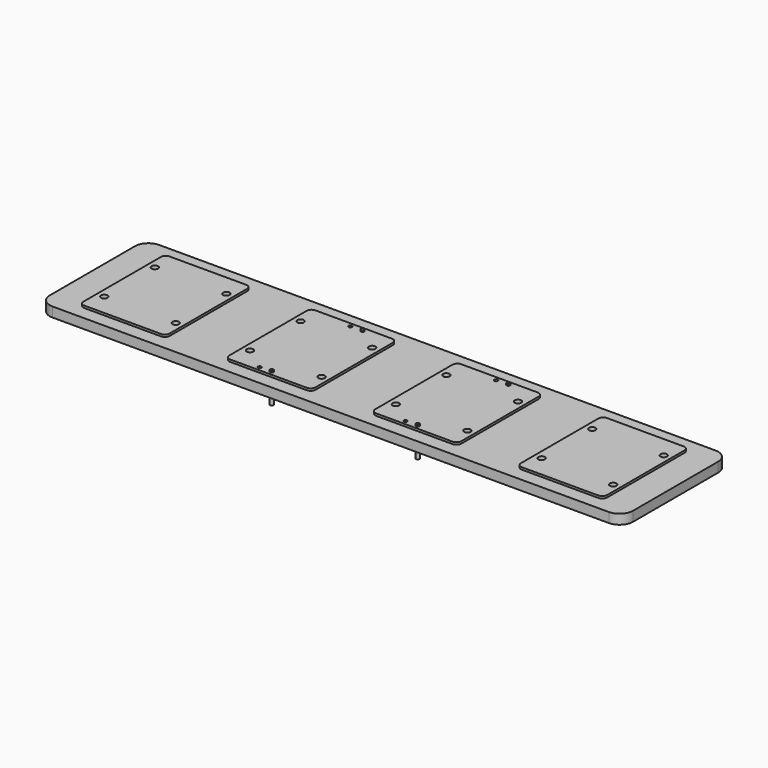
from build123d import *

# Parameters (mm, degrees)
F0_R          = 0.71
F0_R_2        = 2.735
F0_R_3        = 1.35
F1_DEPTH      = 2.9
F2_DEPTH      = 2
F3_DEPTH      = 5.1
F4_DEPTH      = 3.5
F4_DEPTH_BACK = 9


with BuildPart() as f1:
    # F0 (on Top) → F1 (new body, symmetric)
    with BuildSketch(Plane.XY):
        with BuildLine():
            Line((-12.25, -19.875), (-12.25, 19.875))
            ThreePointArc((-12.25, 19.875), (-12.8357864376, 21.2892135624), (-14.25, 21.875))
            Line((-14.25, 21.875), (-45.69, 21.875))
            ThreePointArc((-45.69, 21.875), (-47.1042135624, 21.2892135624), (-47.69, 19.875))
            Line((-47.69, 19.875), (-47.69, -19.875))
            ThreePointArc((-47.69, -19.875), (-47.1042135624, -21.2892135624), (-45.69, -21.875))
            Line((-45.69, -21.875), (-14.25, -21.875))
            ThreePointArc((-14.25, -21.875), (-12.8357864376, -21.2892135624), (-12.25, -19.875))
        make_face()
        with Locations((-34.98, -20.165)):
            Circle(F0_R, mode=Mode.SUBTRACT)
        with Locations((-29.97, -20.165)):
            Circle(F0_R, mode=Mode.SUBTRACT)
        with Locations((-44.67, -13)):
            Circle(F0_R_2, mode=Mode.SUBTRACT)
        with Locations((-15.27, -13)):
            Circle(F0_R_2, mode=Mode.SUBTRACT)
        with Locations((-44.67, 13)):
            Circle(F0_R_2, mode=Mode.SUBTRACT)
        with Locations((-15.27, 13)):
            Circle(F0_R_2, mode=Mode.SUBTRACT)
        with Locations((-29.97, 20.165)):
            Circle(F0_R, mode=Mode.SUBTRACT)
        with Locations((-24.96, 20.165)):
            Circle(F0_R, mode=Mode.SUBTRACT)
        with Locations((-44.67, 13)):
            Circle(F0_R_2)
        with Locations((-44.67, 13)):
            Circle(F0_R_3, mode=Mode.SUBTRACT)
        with Locations((-15.27, 13)):
            Circle(F0_R_2)
        with Locations((-15.27, 13)):
            Circle(F0_R_3, mode=Mode.SUBTRACT)
        with Locations((-44.67, -13)):
            Circle(F0_R_2)
        with Locations((-44.67, -13)):
            Circle(F0_R_3, mode=Mode.SUBTRACT)
        with Locations((-15.27, -13)):
            Circle(F0_R_2)
        with Locations((-15.27, -13)):
            Circle(F0_R_3, mode=Mode.SUBTRACT)
    extrude(amount=F1_DEPTH, both=True)


with BuildPart() as f1b:
    # F0 (on Top) → F1, piece 2 (new body, symmetric)
    with BuildSketch(Plane.XY):
        with BuildLine():
            ThreePointArc((-105.63, 21.875), (-107.0442135624, 21.2892135624), (-107.63, 19.875))
            Line((-107.63, 19.875), (-107.63, -19.875))
            ThreePointArc((-107.63, -19.875), (-107.0442135624, -21.2892135624), (-105.63, -21.875))
            Line((-105.63, -21.875), (-74.19, -21.875))
            ThreePointArc((-74.19, -21.875), (-72.7757864376, -21.2892135624), (-72.19, -19.875))
            Line((-72.19, -19.875), (-72.19, 19.875))
            ThreePointArc((-72.19, 19.875), (-72.7757864376, 21.2892135624), (-74.19, 21.875))
            Line((-74.19, 21.875), (-105.63, 21.875))
        make_face()
        with Locations((-104.61, -13)):
            Circle(F0_R_2, mode=Mode.SUBTRACT)
        with Locations((-75.21, -13)):
            Circle(F0_R_2, mode=Mode.SUBTRACT)
        with Locations((-104.61, 13)):
            Circle(F0_R_2, mode=Mode.SUBTRACT)
        with Locations((-75.21, 13)):
            Circle(F0_R_2, mode=Mode.SUBTRACT)
        with Locations((-104.61, 13)):
            Circle(F0_R_2)
        with Locations((-104.61, 13)):
            Circle(F0_R_3, mode=Mode.SUBTRACT)
        with Locations((-75.21, 13)):
            Circle(F0_R_2)
        with Locations((-75.21, 13)):
            Circle(F0_R_3, mode=Mode.SUBTRACT)
        with Locations((-104.61, -13)):
            Circle(F0_R_2)
        with Locations((-104.61, -13)):
            Circle(F0_R_3, mode=Mode.SUBTRACT)
        with Locations((-75.21, -13)):
            Circle(F0_R_2)
        with Locations((-75.21, -13)):
            Circle(F0_R_3, mode=Mode.SUBTRACT)
    extrude(amount=F1_DEPTH, both=True)


with BuildPart() as f1c:
    # F0 (on Top) → F1, piece 3 (new body, symmetric)
    with BuildSketch(Plane.XY):
        with BuildLine():
            Line((29.97, 20.875), (29.97, 21.875))
            Line((29.97, 21.875), (14.25, 21.875))
            ThreePointArc((14.25, 21.875), (12.8357864376, 21.2892135624), (12.25, 19.875))
            Line((12.25, 19.875), (12.25, -19.875))
            ThreePointArc((12.25, -19.875), (12.8357864376, -21.2892135624), (14.25, -21.875))
            Line((14.25, -21.875), (29.97, -21.875))
            Line((29.97, -21.875), (29.97, -20.875))
            ThreePointArc((29.97, -20.875), (29.26, -20.165), (29.97, -19.455))
            Line((29.97, -19.455), (29.97, -13))
            Line((29.97, -13), (18.005, -13))
            ThreePointArc((18.005, -13), (13.3360629535, -14.9339370465), (15.27, -10.265))
            Line((15.27, -10.265), (15.27, 10.265))
            ThreePointArc((15.27, 10.265), (13.3360629535, 14.9339370465), (18.005, 13))
            Line((18.005, 13), (29.97, 13))
            Line((29.97, 13), (29.97, 19.455))
            ThreePointArc((29.97, 19.455), (29.26, 20.165), (29.97, 20.875))
        make_face()
        with Locations((24.96, -20.165)):
            Circle(F0_R, mode=Mode.SUBTRACT)
        with BuildLine():
            Line((47.69, -19.875), (47.69, 19.875))
            ThreePointArc((47.69, 19.875), (47.1042135624, 21.2892135624), (45.69, 21.875))
            Line((45.69, 21.875), (29.97, 21.875))
            Line((29.97, 21.875), (29.97, 20.875))
            ThreePointArc((29.97, 20.875), (30.4720458146, 20.6670458146), (30.68, 20.165))
            ThreePointArc((30.68, 20.165), (30.4720458146, 19.6629541854), (29.97, 19.455))
            Line((29.97, 19.455), (29.97, 13))
            Line((29.97, 13), (41.935, 13))
            ThreePointArc((41.935, 13), (44.67, 15.735), (47.405, 13))
            ThreePointArc((47.405, 13), (46.6039370465, 11.0660629535), (44.67, 10.265))
            Line((44.67, 10.265), (44.67, -10.265))
            ThreePointArc((44.67, -10.265), (46.6039370465, -11.0660629535), (47.405, -13))
            ThreePointArc((47.405, -13), (44.67, -15.735), (41.935, -13))
            Line((41.935, -13), (29.97, -13))
            Line((29.97, -13), (29.97, -19.455))
            ThreePointArc((29.97, -19.455), (30.4720458146, -19.6629541854), (30.68, -20.165))
            ThreePointArc((30.68, -20.165), (30.4720458146, -20.6670458146), (29.97, -20.875))
            Line((29.97, -20.875), (29.97, -21.875))
            Line((29.97, -21.875), (45.69, -21.875))
            ThreePointArc((45.69, -21.875), (47.1042135624, -21.2892135624), (47.69, -19.875))
        make_face()
        with BuildLine():
            ThreePointArc((35.69, 20.165), (34.98, 19.455), (34.27, 20.165))
            ThreePointArc((34.27, 20.165), (34.98, 20.875), (35.69, 20.165))
        make_face(mode=Mode.SUBTRACT)
        with BuildLine():
            Line((41.935, 13), (29.97, 13))
            Line((29.97, 13), (29.97, -13))
            Line((29.97, -13), (41.935, -13))
            ThreePointArc((41.935, -13), (42.7360629535, -11.0660629535), (44.67, -10.265))
            Line((44.67, -10.265), (44.67, 10.265))
            ThreePointArc((44.67, 10.265), (42.7360629535, 11.0660629535), (41.935, 13))
        make_face()
        with BuildLine():
            Line((29.97, -13), (29.97, 13))
            Line((29.97, 13), (18.005, 13))
            ThreePointArc((18.005, 13), (17.2039370465, 11.0660629535), (15.27, 10.265))
            Line((15.27, 10.265), (15.27, -10.265))
            ThreePointArc((15.27, -10.265), (17.2039370465, -11.0660629535), (18.005, -13))
            Line((18.005, -13), (29.97, -13))
        make_face()
        with BuildLine():
            Line((16.62, -13), (18.005, -13))
            ThreePointArc((18.005, -13), (17.2039370465, -11.0660629535), (15.27, -10.265))
            Line((15.27, -10.265), (15.27, -11.65))
            ThreePointArc((15.27, -11.65), (16.2245941546, -12.0454058454), (16.62, -13))
        make_face()
        with BuildLine():
            ThreePointArc((15.27, -10.265), (13.3360629535, -14.9339370465), (18.005, -13))
            Line((18.005, -13), (16.62, -13))
            ThreePointArc((16.62, -13), (14.3154058454, -13.9545941546), (15.27, -11.65))
            Line((15.27, -11.65), (15.27, -10.265))
        make_face()
        with BuildLine():
            Line((43.32, -13), (41.935, -13))
            ThreePointArc((41.935, -13), (44.67, -15.735), (47.405, -13))
            ThreePointArc((47.405, -13), (46.6039370465, -11.0660629535), (44.67, -10.265))
            Line((44.67, -10.265), (44.67, -11.65))
            ThreePointArc((44.67, -11.65), (45.6245941546, -12.0454058454), (46.02, -13))
            ThreePointArc((46.02, -13), (44.67, -14.35), (43.32, -13))
        make_face()
        with BuildLine():
            ThreePointArc((44.67, -10.265), (42.7360629535, -11.0660629535), (41.935, -13))
            Line((41.935, -13), (43.32, -13))
            ThreePointArc((43.32, -13), (43.7154058454, -12.0454058454), (44.67, -11.65))
            Line((44.67, -11.65), (44.67, -10.265))
        make_face()
        with BuildLine():
            Line((43.32, 13), (41.935, 13))
            ThreePointArc((41.935, 13), (42.7360629535, 11.0660629535), (44.67, 10.265))
            Line((44.67, 10.265), (44.67, 11.65))
            ThreePointArc((44.67, 11.65), (43.7154058454, 12.0454058454), (43.32, 13))
        make_face()
        with BuildLine():
            ThreePointArc((47.405, 13), (44.67, 15.735), (41.935, 13))
            Line((41.935, 13), (43.32, 13))
            ThreePointArc((43.32, 13), (44.67, 14.35), (46.02, 13))
            ThreePointArc((46.02, 13), (45.6245941546, 12.0454058454), (44.67, 11.65))
            Line((44.67, 11.65), (44.67, 10.265))
            ThreePointArc((44.67, 10.265), (46.6039370465, 11.0660629535), (47.405, 13))
        make_face()
        with BuildLine():
            Line((16.62, 13), (18.005, 13))
            ThreePointArc((18.005, 13), (13.3360629535, 14.9339370465), (15.27, 10.265))
            Line((15.27, 10.265), (15.27, 11.65))
            ThreePointArc((15.27, 11.65), (14.3154058454, 13.9545941546), (16.62, 13))
        make_face()
        with BuildLine():
            ThreePointArc((15.27, 10.265), (17.2039370465, 11.0660629535), (18.005, 13))
            Line((18.005, 13), (16.62, 13))
            ThreePointArc((16.62, 13), (16.2245941546, 12.0454058454), (15.27, 11.65))
            Line((15.27, 11.65), (15.27, 10.265))
        make_face()
    extrude(amount=F1_DEPTH, both=True)


with BuildPart() as f1d:
    # F0 (on Top) → F1, piece 4 (new body, symmetric)
    with BuildSketch(Plane.XY):
        with BuildLine():
            ThreePointArc((107.63, 19.875), (107.0442135624, 21.2892135624), (105.63, 21.875))
            Line((105.63, 21.875), (74.19, 21.875))
            ThreePointArc((74.19, 21.875), (72.7757864376, 21.2892135624), (72.19, 19.875))
            Line((72.19, 19.875), (72.19, -19.875))
            ThreePointArc((72.19, -19.875), (72.7757864376, -21.2892135624), (74.19, -21.875))
            Line((74.19, -21.875), (105.63, -21.875))
            ThreePointArc((105.63, -21.875), (107.0442135624, -21.2892135624), (107.63, -19.875))
            Line((107.63, -19.875), (107.63, 19.875))
        make_face()
        with Locations((75.21, -13)):
            Circle(F0_R_2, mode=Mode.SUBTRACT)
        with Locations((104.61, -13)):
            Circle(F0_R_2, mode=Mode.SUBTRACT)
        with Locations((75.21, 13)):
            Circle(F0_R_2, mode=Mode.SUBTRACT)
        with Locations((104.61, 13)):
            Circle(F0_R_2, mode=Mode.SUBTRACT)
        with Locations((75.21, 13)):
            Circle(F0_R_2)
        with Locations((75.21, 13)):
            Circle(F0_R_3, mode=Mode.SUBTRACT)
        with Locations((75.21, -13)):
            Circle(F0_R_2)
        with Locations((75.21, -13)):
            Circle(F0_R_3, mode=Mode.SUBTRACT)
        with Locations((104.61, -13)):
            Circle(F0_R_2)
        with Locations((104.61, -13)):
            Circle(F0_R_3, mode=Mode.SUBTRACT)
        with Locations((104.61, 13)):
            Circle(F0_R_2)
        with Locations((104.61, 13)):
            Circle(F0_R_3, mode=Mode.SUBTRACT)
    extrude(amount=F1_DEPTH, both=True)


with BuildPart() as f2:
    # F0 (on Top) → F2 (new body, symmetric)
    with BuildSketch(Plane.XY):
        with BuildLine():
            ThreePointArc((119.8799997161, 21.8749999999), (118.2605399996, 25.7820646925), (114.352956411, 27.4002719671))
            Line((114.352956411, 27.4002719671), (-114.352956411, 27.4002719671))
            ThreePointArc((-114.352956411, 27.4002719671), (-118.2611664127, 25.7814383797), (-119.88, 21.873228378))
            Line((-119.88, 21.873228378), (-119.88, -21.873228378))
            ThreePointArc((-119.88, -21.873228378), (-118.2611664127, -25.7814383797), (-114.352956411, -27.4002719671))
            Line((-114.352956411, -27.4002719671), (114.352956411, -27.4002719671))
            ThreePointArc((114.352956411, -27.4002719671), (118.2611664127, -25.7814383797), (119.88, -21.873228378))
            Line((119.88, -21.873228378), (119.88, 21.873228378))
            ThreePointArc((119.88, 21.873228378), (119.879999929, 21.874114189), (119.8799997161, 21.8749999999))
        make_face()
        with BuildLine():
            Line((-107.63, -19.875), (-107.63, 19.875))
            ThreePointArc((-107.63, 19.875), (-107.0442135624, 21.2892135624), (-105.63, 21.875))
            Line((-105.63, 21.875), (-74.19, 21.875))
            ThreePointArc((-74.19, 21.875), (-72.7757864376, 21.2892135624), (-72.19, 19.875))
            Line((-72.19, 19.875), (-72.19, -19.875))
            ThreePointArc((-72.19, -19.875), (-72.7757864376, -21.2892135624), (-74.19, -21.875))
            Line((-74.19, -21.875), (-105.63, -21.875))
            ThreePointArc((-105.63, -21.875), (-107.0442135624, -21.2892135624), (-107.63, -19.875))
        make_face(mode=Mode.SUBTRACT)
        with BuildLine():
            ThreePointArc((-14.25, 21.875), (-12.8357864376, 21.2892135624), (-12.25, 19.875))
            Line((-12.25, 19.875), (-12.25, -19.875))
            ThreePointArc((-12.25, -19.875), (-12.8357864376, -21.2892135624), (-14.25, -21.875))
            Line((-14.25, -21.875), (-45.69, -21.875))
            ThreePointArc((-45.69, -21.875), (-47.1042135624, -21.2892135624), (-47.69, -19.875))
            Line((-47.69, -19.875), (-47.69, 19.875))
            ThreePointArc((-47.69, 19.875), (-47.1042135624, 21.2892135624), (-45.69, 21.875))
            Line((-45.69, 21.875), (-14.25, 21.875))
        make_face(mode=Mode.SUBTRACT)
        with BuildLine():
            ThreePointArc((45.69, 21.875), (47.1042135624, 21.2892135624), (47.69, 19.875))
            Line((47.69, 19.875), (47.69, -19.875))
            ThreePointArc((47.69, -19.875), (47.1042135624, -21.2892135624), (45.69, -21.875))
            Line((45.69, -21.875), (29.97, -21.875))
            Line((29.97, -21.875), (14.25, -21.875))
            ThreePointArc((14.25, -21.875), (12.8357864376, -21.2892135624), (12.25, -19.875))
            Line((12.25, -19.875), (12.25, 19.875))
            ThreePointArc((12.25, 19.875), (12.8357864376, 21.2892135624), (14.25, 21.875))
            Line((14.25, 21.875), (29.97, 21.875))
            Line((29.97, 21.875), (45.69, 21.875))
        make_face(mode=Mode.SUBTRACT)
        with BuildLine():
            Line((74.19, 21.875), (105.63, 21.875))
            ThreePointArc((105.63, 21.875), (107.0442135624, 21.2892135624), (107.63, 19.875))
            Line((107.63, 19.875), (107.63, -19.875))
            ThreePointArc((107.63, -19.875), (107.0442135624, -21.2892135624), (105.63, -21.875))
            Line((105.63, -21.875), (74.19, -21.875))
            ThreePointArc((74.19, -21.875), (72.7757864376, -21.2892135624), (72.19, -19.875))
            Line((72.19, -19.875), (72.19, 19.875))
            ThreePointArc((72.19, 19.875), (72.7757864376, 21.2892135624), (74.19, 21.875))
        make_face(mode=Mode.SUBTRACT)
        with BuildLine():
            ThreePointArc((119.8799997161, 21.8749999999), (118.2605399996, 25.7820646925), (114.352956411, 27.4002719671))
            Line((114.352956411, 27.4002719671), (-114.352956411, 27.4002719671))
            ThreePointArc((-114.352956411, 27.4002719671), (-118.2611664127, 25.7814383797), (-119.88, 21.873228378))
            Line((-119.88, 21.873228378), (-119.88, -21.873228378))
            ThreePointArc((-119.88, -21.873228378), (-118.2611664127, -25.7814383797), (-114.352956411, -27.4002719671))
            Line((-114.352956411, -27.4002719671), (114.352956411, -27.4002719671))
            ThreePointArc((114.352956411, -27.4002719671), (118.2611664127, -25.7814383797), (119.88, -21.873228378))
            Line((119.88, -21.873228378), (119.88, 21.873228378))
            ThreePointArc((119.88, 21.873228378), (119.879999929, 21.874114189), (119.8799997161, 21.8749999999))
        make_face()
        with BuildLine():
            Line((-107.63, -19.875), (-107.63, 19.875))
            ThreePointArc((-107.63, 19.875), (-107.0442135624, 21.2892135624), (-105.63, 21.875))
            Line((-105.63, 21.875), (-74.19, 21.875))
            ThreePointArc((-74.19, 21.875), (-72.7757864376, 21.2892135624), (-72.19, 19.875))
            Line((-72.19, 19.875), (-72.19, -19.875))
            ThreePointArc((-72.19, -19.875), (-72.7757864376, -21.2892135624), (-74.19, -21.875))
            Line((-74.19, -21.875), (-105.63, -21.875))
            ThreePointArc((-105.63, -21.875), (-107.0442135624, -21.2892135624), (-107.63, -19.875))
        make_face(mode=Mode.SUBTRACT)
        with BuildLine():
            ThreePointArc((-14.25, 21.875), (-12.8357864376, 21.2892135624), (-12.25, 19.875))
            Line((-12.25, 19.875), (-12.25, -19.875))
            ThreePointArc((-12.25, -19.875), (-12.8357864376, -21.2892135624), (-14.25, -21.875))
            Line((-14.25, -21.875), (-45.69, -21.875))
            ThreePointArc((-45.69, -21.875), (-47.1042135624, -21.2892135624), (-47.69, -19.875))
            Line((-47.69, -19.875), (-47.69, 19.875))
            ThreePointArc((-47.69, 19.875), (-47.1042135624, 21.2892135624), (-45.69, 21.875))
            Line((-45.69, 21.875), (-14.25, 21.875))
        make_face(mode=Mode.SUBTRACT)
        with BuildLine():
            ThreePointArc((45.69, 21.875), (47.1042135624, 21.2892135624), (47.69, 19.875))
            Line((47.69, 19.875), (47.69, -19.875))
            ThreePointArc((47.69, -19.875), (47.1042135624, -21.2892135624), (45.69, -21.875))
            Line((45.69, -21.875), (29.97, -21.875))
            Line((29.97, -21.875), (14.25, -21.875))
            ThreePointArc((14.25, -21.875), (12.8357864376, -21.2892135624), (12.25, -19.875))
            Line((12.25, -19.875), (12.25, 19.875))
            ThreePointArc((12.25, 19.875), (12.8357864376, 21.2892135624), (14.25, 21.875))
            Line((14.25, 21.875), (29.97, 21.875))
            Line((29.97, 21.875), (45.69, 21.875))
        make_face(mode=Mode.SUBTRACT)
        with BuildLine():
            Line((74.19, 21.875), (105.63, 21.875))
            ThreePointArc((105.63, 21.875), (107.0442135624, 21.2892135624), (107.63, 19.875))
            Line((107.63, 19.875), (107.63, -19.875))
            ThreePointArc((107.63, -19.875), (107.0442135624, -21.2892135624), (105.63, -21.875))
            Line((105.63, -21.875), (74.19, -21.875))
            ThreePointArc((74.19, -21.875), (72.7757864376, -21.2892135624), (72.19, -19.875))
            Line((72.19, -19.875), (72.19, 19.875))
            ThreePointArc((72.19, 19.875), (72.7757864376, 21.2892135624), (74.19, 21.875))
        make_face(mode=Mode.SUBTRACT)
        with BuildLine():
            ThreePointArc((119.8799997161, 21.8749999999), (118.2605399996, 25.7820646925), (114.352956411, 27.4002719671))
            Line((114.352956411, 27.4002719671), (-114.352956411, 27.4002719671))
            ThreePointArc((-114.352956411, 27.4002719671), (-118.2611664127, 25.7814383797), (-119.88, 21.873228378))
            Line((-119.88, 21.873228378), (-119.88, -21.873228378))
            ThreePointArc((-119.88, -21.873228378), (-118.2611664127, -25.7814383797), (-114.352956411, -27.4002719671))
            Line((-114.352956411, -27.4002719671), (114.352956411, -27.4002719671))
            ThreePointArc((114.352956411, -27.4002719671), (118.2611664127, -25.7814383797), (119.88, -21.873228378))
            Line((119.88, -21.873228378), (119.88, 21.873228378))
            ThreePointArc((119.88, 21.873228378), (119.879999929, 21.874114189), (119.8799997161, 21.8749999999))
        make_face()
        with BuildLine():
            Line((-107.63, -19.875), (-107.63, 19.875))
            ThreePointArc((-107.63, 19.875), (-107.0442135624, 21.2892135624), (-105.63, 21.875))
            Line((-105.63, 21.875), (-74.19, 21.875))
            ThreePointArc((-74.19, 21.875), (-72.7757864376, 21.2892135624), (-72.19, 19.875))
            Line((-72.19, 19.875), (-72.19, -19.875))
            ThreePointArc((-72.19, -19.875), (-72.7757864376, -21.2892135624), (-74.19, -21.875))
            Line((-74.19, -21.875), (-105.63, -21.875))
            ThreePointArc((-105.63, -21.875), (-107.0442135624, -21.2892135624), (-107.63, -19.875))
        make_face(mode=Mode.SUBTRACT)
        with BuildLine():
            ThreePointArc((-14.25, 21.875), (-12.8357864376, 21.2892135624), (-12.25, 19.875))
            Line((-12.25, 19.875), (-12.25, -19.875))
            ThreePointArc((-12.25, -19.875), (-12.8357864376, -21.2892135624), (-14.25, -21.875))
            Line((-14.25, -21.875), (-45.69, -21.875))
            ThreePointArc((-45.69, -21.875), (-47.1042135624, -21.2892135624), (-47.69, -19.875))
            Line((-47.69, -19.875), (-47.69, 19.875))
            ThreePointArc((-47.69, 19.875), (-47.1042135624, 21.2892135624), (-45.69, 21.875))
            Line((-45.69, 21.875), (-14.25, 21.875))
        make_face(mode=Mode.SUBTRACT)
        with BuildLine():
            ThreePointArc((45.69, 21.875), (47.1042135624, 21.2892135624), (47.69, 19.875))
            Line((47.69, 19.875), (47.69, -19.875))
            ThreePointArc((47.69, -19.875), (47.1042135624, -21.2892135624), (45.69, -21.875))
            Line((45.69, -21.875), (29.97, -21.875))
            Line((29.97, -21.875), (14.25, -21.875))
            ThreePointArc((14.25, -21.875), (12.8357864376, -21.2892135624), (12.25, -19.875))
            Line((12.25, -19.875), (12.25, 19.875))
            ThreePointArc((12.25, 19.875), (12.8357864376, 21.2892135624), (14.25, 21.875))
            Line((14.25, 21.875), (29.97, 21.875))
            Line((29.97, 21.875), (45.69, 21.875))
        make_face(mode=Mode.SUBTRACT)
        with BuildLine():
            Line((74.19, 21.875), (105.63, 21.875))
            ThreePointArc((105.63, 21.875), (107.0442135624, 21.2892135624), (107.63, 19.875))
            Line((107.63, 19.875), (107.63, -19.875))
            ThreePointArc((107.63, -19.875), (107.0442135624, -21.2892135624), (105.63, -21.875))
            Line((105.63, -21.875), (74.19, -21.875))
            ThreePointArc((74.19, -21.875), (72.7757864376, -21.2892135624), (72.19, -19.875))
            Line((72.19, -19.875), (72.19, 19.875))
            ThreePointArc((72.19, 19.875), (72.7757864376, 21.2892135624), (74.19, 21.875))
        make_face(mode=Mode.SUBTRACT)
        with BuildLine():
            ThreePointArc((119.8799997161, 21.8749999999), (118.2605399996, 25.7820646925), (114.352956411, 27.4002719671))
            Line((114.352956411, 27.4002719671), (-114.352956411, 27.4002719671))
            ThreePointArc((-114.352956411, 27.4002719671), (-118.2611664127, 25.7814383797), (-119.88, 21.873228378))
            Line((-119.88, 21.873228378), (-119.88, -21.873228378))
            ThreePointArc((-119.88, -21.873228378), (-118.2611664127, -25.7814383797), (-114.352956411, -27.4002719671))
            Line((-114.352956411, -27.4002719671), (114.352956411, -27.4002719671))
            ThreePointArc((114.352956411, -27.4002719671), (118.2611664127, -25.7814383797), (119.88, -21.873228378))
            Line((119.88, -21.873228378), (119.88, 21.873228378))
            ThreePointArc((119.88, 21.873228378), (119.879999929, 21.874114189), (119.8799997161, 21.8749999999))
        make_face()
        with BuildLine():
            Line((-107.63, -19.875), (-107.63, 19.875))
            ThreePointArc((-107.63, 19.875), (-107.0442135624, 21.2892135624), (-105.63, 21.875))
            Line((-105.63, 21.875), (-74.19, 21.875))
            ThreePointArc((-74.19, 21.875), (-72.7757864376, 21.2892135624), (-72.19, 19.875))
            Line((-72.19, 19.875), (-72.19, -19.875))
            ThreePointArc((-72.19, -19.875), (-72.7757864376, -21.2892135624), (-74.19, -21.875))
            Line((-74.19, -21.875), (-105.63, -21.875))
            ThreePointArc((-105.63, -21.875), (-107.0442135624, -21.2892135624), (-107.63, -19.875))
        make_face(mode=Mode.SUBTRACT)
        with BuildLine():
            ThreePointArc((-14.25, 21.875), (-12.8357864376, 21.2892135624), (-12.25, 19.875))
            Line((-12.25, 19.875), (-12.25, -19.875))
            ThreePointArc((-12.25, -19.875), (-12.8357864376, -21.2892135624), (-14.25, -21.875))
            Line((-14.25, -21.875), (-45.69, -21.875))
            ThreePointArc((-45.69, -21.875), (-47.1042135624, -21.2892135624), (-47.69, -19.875))
            Line((-47.69, -19.875), (-47.69, 19.875))
            ThreePointArc((-47.69, 19.875), (-47.1042135624, 21.2892135624), (-45.69, 21.875))
            Line((-45.69, 21.875), (-14.25, 21.875))
        make_face(mode=Mode.SUBTRACT)
        with BuildLine():
            ThreePointArc((45.69, 21.875), (47.1042135624, 21.2892135624), (47.69, 19.875))
            Line((47.69, 19.875), (47.69, -19.875))
            ThreePointArc((47.69, -19.875), (47.1042135624, -21.2892135624), (45.69, -21.875))
            Line((45.69, -21.875), (29.97, -21.875))
            Line((29.97, -21.875), (14.25, -21.875))
            ThreePointArc((14.25, -21.875), (12.8357864376, -21.2892135624), (12.25, -19.875))
            Line((12.25, -19.875), (12.25, 19.875))
            ThreePointArc((12.25, 19.875), (12.8357864376, 21.2892135624), (14.25, 21.875))
            Line((14.25, 21.875), (29.97, 21.875))
            Line((29.97, 21.875), (45.69, 21.875))
        make_face(mode=Mode.SUBTRACT)
        with BuildLine():
            Line((74.19, 21.875), (105.63, 21.875))
            ThreePointArc((105.63, 21.875), (107.0442135624, 21.2892135624), (107.63, 19.875))
            Line((107.63, 19.875), (107.63, -19.875))
            ThreePointArc((107.63, -19.875), (107.0442135624, -21.2892135624), (105.63, -21.875))
            Line((105.63, -21.875), (74.19, -21.875))
            ThreePointArc((74.19, -21.875), (72.7757864376, -21.2892135624), (72.19, -19.875))
            Line((72.19, -19.875), (72.19, 19.875))
            ThreePointArc((72.19, 19.875), (72.7757864376, 21.2892135624), (74.19, 21.875))
        make_face(mode=Mode.SUBTRACT)
        with BuildLine():
            ThreePointArc((119.8799997161, 21.8749999999), (118.2605399996, 25.7820646925), (114.352956411, 27.4002719671))
            Line((114.352956411, 27.4002719671), (-114.352956411, 27.4002719671))
            ThreePointArc((-114.352956411, 27.4002719671), (-118.2611664127, 25.7814383797), (-119.88, 21.873228378))
            Line((-119.88, 21.873228378), (-119.88, -21.873228378))
            ThreePointArc((-119.88, -21.873228378), (-118.2611664127, -25.7814383797), (-114.352956411, -27.4002719671))
            Line((-114.352956411, -27.4002719671), (114.352956411, -27.4002719671))
            ThreePointArc((114.352956411, -27.4002719671), (118.2611664127, -25.7814383797), (119.88, -21.873228378))
            Line((119.88, -21.873228378), (119.88, 21.873228378))
            ThreePointArc((119.88, 21.873228378), (119.879999929, 21.874114189), (119.8799997161, 21.8749999999))
        make_face()
        with BuildLine():
            Line((-107.63, -19.875), (-107.63, 19.875))
            ThreePointArc((-107.63, 19.875), (-107.0442135624, 21.2892135624), (-105.63, 21.875))
            Line((-105.63, 21.875), (-74.19, 21.875))
            ThreePointArc((-74.19, 21.875), (-72.7757864376, 21.2892135624), (-72.19, 19.875))
            Line((-72.19, 19.875), (-72.19, -19.875))
            ThreePointArc((-72.19, -19.875), (-72.7757864376, -21.2892135624), (-74.19, -21.875))
            Line((-74.19, -21.875), (-105.63, -21.875))
            ThreePointArc((-105.63, -21.875), (-107.0442135624, -21.2892135624), (-107.63, -19.875))
        make_face(mode=Mode.SUBTRACT)
        with BuildLine():
            ThreePointArc((-14.25, 21.875), (-12.8357864376, 21.2892135624), (-12.25, 19.875))
            Line((-12.25, 19.875), (-12.25, -19.875))
            ThreePointArc((-12.25, -19.875), (-12.8357864376, -21.2892135624), (-14.25, -21.875))
            Line((-14.25, -21.875), (-45.69, -21.875))
            ThreePointArc((-45.69, -21.875), (-47.1042135624, -21.2892135624), (-47.69, -19.875))
            Line((-47.69, -19.875), (-47.69, 19.875))
            ThreePointArc((-47.69, 19.875), (-47.1042135624, 21.2892135624), (-45.69, 21.875))
            Line((-45.69, 21.875), (-14.25, 21.875))
        make_face(mode=Mode.SUBTRACT)
        with BuildLine():
            ThreePointArc((45.69, 21.875), (47.1042135624, 21.2892135624), (47.69, 19.875))
            Line((47.69, 19.875), (47.69, -19.875))
            ThreePointArc((47.69, -19.875), (47.1042135624, -21.2892135624), (45.69, -21.875))
            Line((45.69, -21.875), (29.97, -21.875))
            Line((29.97, -21.875), (14.25, -21.875))
            ThreePointArc((14.25, -21.875), (12.8357864376, -21.2892135624), (12.25, -19.875))
            Line((12.25, -19.875), (12.25, 19.875))
            ThreePointArc((12.25, 19.875), (12.8357864376, 21.2892135624), (14.25, 21.875))
            Line((14.25, 21.875), (29.97, 21.875))
            Line((29.97, 21.875), (45.69, 21.875))
        make_face(mode=Mode.SUBTRACT)
        with BuildLine():
            Line((74.19, 21.875), (105.63, 21.875))
            ThreePointArc((105.63, 21.875), (107.0442135624, 21.2892135624), (107.63, 19.875))
            Line((107.63, 19.875), (107.63, -19.875))
            ThreePointArc((107.63, -19.875), (107.0442135624, -21.2892135624), (105.63, -21.875))
            Line((105.63, -21.875), (74.19, -21.875))
            ThreePointArc((74.19, -21.875), (72.7757864376, -21.2892135624), (72.19, -19.875))
            Line((72.19, -19.875), (72.19, 19.875))
            ThreePointArc((72.19, 19.875), (72.7757864376, 21.2892135624), (74.19, 21.875))
        make_face(mode=Mode.SUBTRACT)
    extrude(amount=F2_DEPTH, both=True)


with BuildPart() as f3:
    # F0 (on Top) → F3 (new body)
    with BuildSketch(Plane.XY):
        with Locations((-104.61, -13)):
            Circle(F0_R_2)
        with Locations((-104.61, -13)):
            Circle(F0_R_3, mode=Mode.SUBTRACT)
    extrude(amount=-F3_DEPTH)


with BuildPart() as f3b:
    # F0 (on Top) → F3, piece 2 (new body)
    with BuildSketch(Plane.XY):
        with Locations((-104.61, 13)):
            Circle(F0_R_2)
        with Locations((-104.61, 13)):
            Circle(F0_R_3, mode=Mode.SUBTRACT)
    extrude(amount=-F3_DEPTH)


with BuildPart() as f3c:
    # F0 (on Top) → F3, piece 3 (new body)
    with BuildSketch(Plane.XY):
        with Locations((-75.21, 13)):
            Circle(F0_R_2)
        with Locations((-75.21, 13)):
            Circle(F0_R_3, mode=Mode.SUBTRACT)
    extrude(amount=-F3_DEPTH)


with BuildPart() as f3d:
    # F0 (on Top) → F3, piece 4 (new body)
    with BuildSketch(Plane.XY):
        with Locations((-75.21, -13)):
            Circle(F0_R_2)
        with Locations((-75.21, -13)):
            Circle(F0_R_3, mode=Mode.SUBTRACT)
    extrude(amount=-F3_DEPTH)


with BuildPart() as f3e:
    # F0 (on Top) → F3, piece 5 (new body)
    with BuildSketch(Plane.XY):
        with Locations((-44.67, -13)):
            Circle(F0_R_2)
        with Locations((-44.67, -13)):
            Circle(F0_R_3, mode=Mode.SUBTRACT)
    extrude(amount=-F3_DEPTH)


with BuildPart() as f3f:
    # F0 (on Top) → F3, piece 6 (new body)
    with BuildSketch(Plane.XY):
        with Locations((-15.27, -13)):
            Circle(F0_R_2)
        with Locations((-15.27, -13)):
            Circle(F0_R_3, mode=Mode.SUBTRACT)
    extrude(amount=-F3_DEPTH)


with BuildPart() as f3g:
    # F0 (on Top) → F3, piece 7 (new body)
    with BuildSketch(Plane.XY):
        with Locations((-44.67, 13)):
            Circle(F0_R_2)
        with Locations((-44.67, 13)):
            Circle(F0_R_3, mode=Mode.SUBTRACT)
    extrude(amount=-F3_DEPTH)


with BuildPart() as f3h:
    # F0 (on Top) → F3, piece 8 (new body)
    with BuildSketch(Plane.XY):
        with Locations((-15.27, 13)):
            Circle(F0_R_2)
        with Locations((-15.27, 13)):
            Circle(F0_R_3, mode=Mode.SUBTRACT)
    extrude(amount=-F3_DEPTH)


with BuildPart() as f3i:
    # F0 (on Top) → F3, piece 9 (new body)
    with BuildSketch(Plane.XY):
        with BuildLine():
            Line((16.62, 13), (18.005, 13))
            ThreePointArc((18.005, 13), (13.3360629535, 14.9339370465), (15.27, 10.265))
            Line((15.27, 10.265), (15.27, 11.65))
            ThreePointArc((15.27, 11.65), (14.3154058454, 13.9545941546), (16.62, 13))
        make_face()
        with BuildLine():
            ThreePointArc((15.27, 10.265), (17.2039370465, 11.0660629535), (18.005, 13))
            Line((18.005, 13), (16.62, 13))
            ThreePointArc((16.62, 13), (16.2245941546, 12.0454058454), (15.27, 11.65))
            Line((15.27, 11.65), (15.27, 10.265))
        make_face()
    extrude(amount=-F3_DEPTH)


with BuildPart() as f3j:
    # F0 (on Top) → F3, piece 10 (new body)
    with BuildSketch(Plane.XY):
        with BuildLine():
            ThreePointArc((15.27, -10.265), (13.3360629535, -14.9339370465), (18.005, -13))
            Line((18.005, -13), (16.62, -13))
            ThreePointArc((16.62, -13), (14.3154058454, -13.9545941546), (15.27, -11.65))
            Line((15.27, -11.65), (15.27, -10.265))
        make_face()
        with BuildLine():
            Line((16.62, -13), (18.005, -13))
            ThreePointArc((18.005, -13), (17.2039370465, -11.0660629535), (15.27, -10.265))
            Line((15.27, -10.265), (15.27, -11.65))
            ThreePointArc((15.27, -11.65), (16.2245941546, -12.0454058454), (16.62, -13))
        make_face()
    extrude(amount=-F3_DEPTH)


with BuildPart() as f3k:
    # F0 (on Top) → F3, piece 11 (new body)
    with BuildSketch(Plane.XY):
        with BuildLine():
            Line((43.32, -13), (41.935, -13))
            ThreePointArc((41.935, -13), (44.67, -15.735), (47.405, -13))
            ThreePointArc((47.405, -13), (46.6039370465, -11.0660629535), (44.67, -10.265))
            Line((44.67, -10.265), (44.67, -11.65))
            ThreePointArc((44.67, -11.65), (45.6245941546, -12.0454058454), (46.02, -13))
            ThreePointArc((46.02, -13), (44.67, -14.35), (43.32, -13))
        make_face()
        with BuildLine():
            ThreePointArc((44.67, -10.265), (42.7360629535, -11.0660629535), (41.935, -13))
            Line((41.935, -13), (43.32, -13))
            ThreePointArc((43.32, -13), (43.7154058454, -12.0454058454), (44.67, -11.65))
            Line((44.67, -11.65), (44.67, -10.265))
        make_face()
    extrude(amount=-F3_DEPTH)


with BuildPart() as f3l:
    # F0 (on Top) → F3, piece 12 (new body)
    with BuildSketch(Plane.XY):
        with BuildLine():
            ThreePointArc((47.405, 13), (44.67, 15.735), (41.935, 13))
            Line((41.935, 13), (43.32, 13))
            ThreePointArc((43.32, 13), (44.67, 14.35), (46.02, 13))
            ThreePointArc((46.02, 13), (45.6245941546, 12.0454058454), (44.67, 11.65))
            Line((44.67, 11.65), (44.67, 10.265))
            ThreePointArc((44.67, 10.265), (46.6039370465, 11.0660629535), (47.405, 13))
        make_face()
        with BuildLine():
            Line((43.32, 13), (41.935, 13))
            ThreePointArc((41.935, 13), (42.7360629535, 11.0660629535), (44.67, 10.265))
            Line((44.67, 10.265), (44.67, 11.65))
            ThreePointArc((44.67, 11.65), (43.7154058454, 12.0454058454), (43.32, 13))
        make_face()
    extrude(amount=-F3_DEPTH)


with BuildPart() as f3m:
    # F0 (on Top) → F3, piece 13 (new body)
    with BuildSketch(Plane.XY):
        with Locations((75.21, -13)):
            Circle(F0_R_2)
        with Locations((75.21, -13)):
            Circle(F0_R_3, mode=Mode.SUBTRACT)
    extrude(amount=-F3_DEPTH)


with BuildPart() as f3n:
    # F0 (on Top) → F3, piece 14 (new body)
    with BuildSketch(Plane.XY):
        with Locations((104.61, -13)):
            Circle(F0_R_2)
        with Locations((104.61, -13)):
            Circle(F0_R_3, mode=Mode.SUBTRACT)
    extrude(amount=-F3_DEPTH)


with BuildPart() as f3o:
    # F0 (on Top) → F3, piece 15 (new body)
    with BuildSketch(Plane.XY):
        with Locations((75.21, 13)):
            Circle(F0_R_2)
        with Locations((75.21, 13)):
            Circle(F0_R_3, mode=Mode.SUBTRACT)
    extrude(amount=-F3_DEPTH)


with BuildPart() as f3p:
    # F0 (on Top) → F3, piece 16 (new body)
    with BuildSketch(Plane.XY):
        with Locations((104.61, 13)):
            Circle(F0_R_2)
        with Locations((104.61, 13)):
            Circle(F0_R_3, mode=Mode.SUBTRACT)
    extrude(amount=-F3_DEPTH)


with BuildPart() as f4:
    # F0 (on Top) → F4 (new body, two sides)
    with BuildSketch(Plane.XY) as f4_sk:
        with Locations((-24.96, 20.165)):
            Circle(F0_R)
    extrude(amount=F4_DEPTH)
    extrude(f4_sk.sketch, amount=-F4_DEPTH_BACK)


with BuildPart() as f4b:
    # F0 (on Top) → F4, piece 2 (new body, two sides)
    with BuildSketch(Plane.XY) as f4_2_sk:
        with BuildLine():
            ThreePointArc((35.69, 20.165), (34.98, 20.875), (34.27, 20.165))
            ThreePointArc((34.27, 20.165), (34.98, 19.455), (35.69, 20.165))
        make_face()
    extrude(amount=F4_DEPTH)
    extrude(f4_2_sk.sketch, amount=-F4_DEPTH_BACK)


with BuildPart() as f4c:
    # F0 (on Top) → F4, piece 3 (new body, two sides)
    with BuildSketch(Plane.XY) as f4_3_sk:
        with BuildLine():
            ThreePointArc((29.97, -19.455), (29.26, -20.165), (29.97, -20.875))
            Line((29.97, -20.875), (29.97, -19.455))
        make_face()
        with BuildLine():
            Line((29.97, -19.455), (29.97, -20.875))
            ThreePointArc((29.97, -20.875), (30.4720458146, -20.6670458146), (30.68, -20.165))
            ThreePointArc((30.68, -20.165), (30.4720458146, -19.6629541854), (29.97, -19.455))
        make_face()
    extrude(amount=F4_DEPTH)
    extrude(f4_3_sk.sketch, amount=-F4_DEPTH_BACK)


with BuildPart() as f4d:
    # F0 (on Top) → F4, piece 4 (new body, two sides)
    with BuildSketch(Plane.XY) as f4_4_sk:
        with Locations((-29.97, -20.165)):
            Circle(F0_R)
    extrude(amount=F4_DEPTH)
    extrude(f4_4_sk.sketch, amount=-F4_DEPTH_BACK)


solid = Compound([f1.part, f1b.part, f1c.part, f1d.part, f2.part, f3.part, f3b.part, f3c.part, f3d.part, f3e.part, f3f.part, f3g.part, f3h.part, f3i.part, f3j.part, f3k.part, f3l.part, f3m.part, f3n.part, f3o.part, f3p.part, f4.part, f4b.part, f4c.part, f4d.part])
